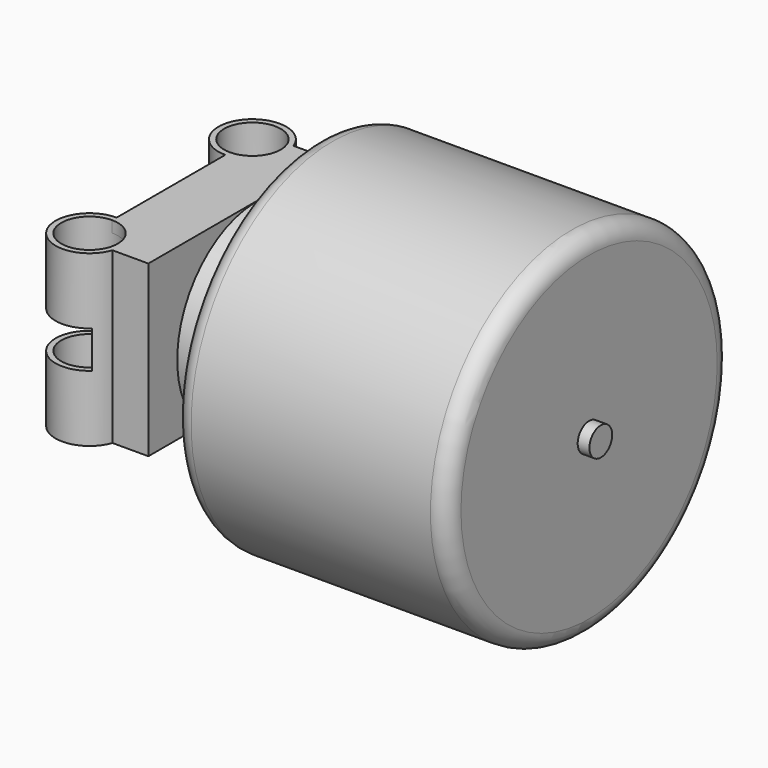
from build123d import *

# Parameters (mm, degrees)
F0_W      = 25.2578889922
F0_H      = 87.7920170172
F0_W_2    = 241.5705997671
F0_H_2    = 156.5749233454
F0_W_3    = 60
F0_H_3    = 200
F4_DEPTH  = 75
F3_R      = 12.5698897047
F5_DEPTH  = 5000
F6_W      = 180
F6_H      = 130
F7_DEPTH  = 6000
F8_R      = 30
F8_R_2    = 25
F9_DEPTH  = 75
F11_W     = 40000
F11_H     = 33
F12_DEPTH = 15000
F13_DEPTH = 1000
F14_DEPTH = 1000
F15_DEPTH = 350
F16_R     = 15


with BuildPart() as f1:
    # F0 (on Top) → F1 (revolve)
    with BuildSketch(Plane.XY):
        with Locations((58.379718929, 43.8960085086)):
            Rectangle(F0_W, F0_H)
    revolve(axis=Axis((58.379718929, 0, 0), (1, 0, 0)))


with BuildPart() as f2:
    # F0 (on Top) → F2 (revolve)
    with BuildSketch(Plane.XY):
        with Locations((218.8274469054, 78.2874616727)):
            Rectangle(F0_W_2, F0_H_2)
    revolve(axis=Axis((218.8274469054, 0, 0), (1, 0, 0)))


with BuildPart() as f4:
    # F0 (on Top) → F4 (new body, symmetric)
    with BuildSketch(Plane.XY):
        Rectangle(F0_W_3, F0_H_3)
    extrude(amount=F4_DEPTH, both=True)


with BuildPart() as f5_tool:
    # F3 (on Right) → F5 (new body, symmetric)
    with BuildSketch(Plane.YZ):
        Circle(F3_R)
    extrude(amount=F5_DEPTH, both=True)


with BuildPart() as f1_1:
    add(f1.part)

    # F5: cut by f5_tool
    add(f5_tool.part, mode=Mode.SUBTRACT)



with BuildPart() as f2_1:
    add(f2.part)

    # F5: cut by f5_tool
    add(f5_tool.part, mode=Mode.SUBTRACT)


with BuildPart() as f4_1:
    add(f4.part)

    # F5: cut by f5_tool
    add(f5_tool.part, mode=Mode.SUBTRACT)

    # F6 (on Right) → F7 (cut)
    with BuildSketch(Plane.YZ):
        Rectangle(F6_W, F6_H)
    extrude(amount=-F7_DEPTH, mode=Mode.SUBTRACT)

    # F8 (on Top) → F9 (join, symmetric)
    with BuildSketch(Plane.XY):
        with Locations((-30, 90)):
            Circle(F8_R)
        with Locations((-30, 90)):
            Circle(F8_R_2, mode=Mode.SUBTRACT)
        with Locations((-30, -90)):
            Circle(F8_R)
        with Locations((-30, -90)):
            Circle(F8_R_2, mode=Mode.SUBTRACT)
    extrude(amount=F9_DEPTH, both=True)

    # F11 (on offset) → F12 (cut)
    with BuildSketch(Plane.YZ.offset(-10)):
        Rectangle(F11_W, F11_H)
    extrude(amount=-F12_DEPTH, mode=Mode.SUBTRACT)

    # F8 (on Top) → F13 (cut, symmetric)
    with BuildSketch(Plane.XY):
        with Locations((-30, 90)):
            Circle(F8_R_2)
    extrude(amount=F13_DEPTH, both=True, mode=Mode.SUBTRACT)

    # F8 (on Top) → F14 (cut, symmetric)
    with BuildSketch(Plane.XY):
        with Locations((-30, -90)):
            Circle(F8_R_2)
    extrude(amount=F14_DEPTH, both=True, mode=Mode.SUBTRACT)


with BuildPart() as f1_2:
    add(f1_1.part)

    add(f2_1.part)  # F15 merges F2

    add(f4_1.part)  # F15 merges F4
    # F3 (on Right) → F15 (join)
    with BuildSketch(Plane.YZ):
        Circle(F3_R)
    extrude(amount=F15_DEPTH)

    # F16
    f16_edges = [f1_2.edges().sort_by_distance(p)[0] for p in [
        (339.612747, -156.574923, 0),
        (98.042147, -156.574923, 0),
    ]]
    fillet(f16_edges, radius=F16_R)


solid = f1_2.part
